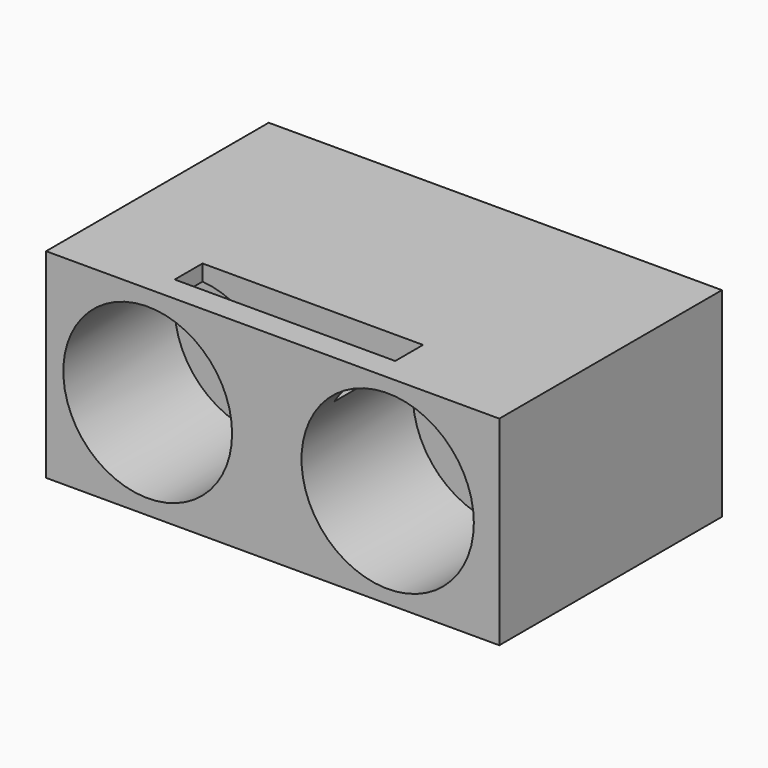
from build123d import *

# Parameters (mm, degrees)
F0_W     = 206.834365
F0_H     = 91.075212
F1_DEPTH = 127
F2_DEPTH = 127
F3_R     = 38.508072
F3_R_2   = 39.324103
F4_DEPTH = 63.5
F5_W     = 100.627238
F5_H     = 15.888504
F6_DEPTH = 25.4


with BuildPart() as f1:
    # F0 (on Front) → F1 (new body)
    with BuildSketch(Plane.XZ):
        with Locations((41.707343, 0.141859)):
            Rectangle(F0_W, F0_H)
    extrude(amount=F1_DEPTH)

    # F0 (on Front) → F2 (join)
    with BuildSketch(Plane.XZ):
        with Locations((41.707343, 0.141859)):
            Rectangle(F0_W, F0_H)
    extrude(amount=F2_DEPTH)

    # F3 (on face) → F4 (cut)
    with BuildSketch(Plane.XZ.offset(127)):
        with Locations((-15.331196, 0)):
            Circle(F3_R)
        with Locations((94.186038, 0)):
            Circle(F3_R_2)
    extrude(amount=-F4_DEPTH, mode=Mode.SUBTRACT)

    # F5 (on face) → F6 (cut)
    with BuildSketch(Plane.XY.offset(45.679465)):
        with Locations((38.056093, -107.49064)):
            Rectangle(F5_W, F5_H)
    extrude(amount=-F6_DEPTH, mode=Mode.SUBTRACT)


solid = f1.part
